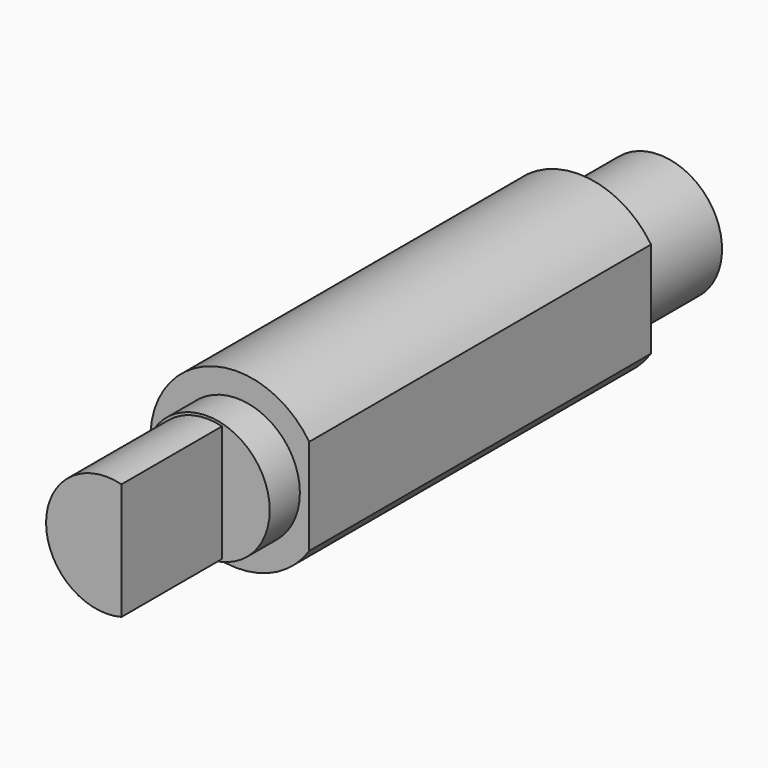
from build123d import *

# Parameters (mm, degrees)
F1_DEPTH = 17
F2_R     = 2.5
F3_DEPTH = 1.5
F4_R     = 2.5
F5_DEPTH = 4
F7_DEPTH = 5


with BuildPart() as f1:
    # F0 (on Front) → F1 (new body)
    with BuildSketch(Plane.XZ):
        with BuildLine():
            Line((2.8721443851, -1.9113572746), (2.8721443851, 1.9113572746))
            ThreePointArc((2.8721443851, 1.9113572746), (-3.45, 0), (2.8721443851, -1.9113572746))
        make_face()
    extrude(amount=F1_DEPTH)

    # F2 (on face) → F3 (join)
    with BuildSketch(Plane.XZ.offset(17)):
        Circle(F2_R)
    extrude(amount=F3_DEPTH)

    # F4 (on face) → F5 (join)
    with BuildSketch(Plane(origin=(0, 0, 0), x_dir=(-1, 0, 0), z_dir=(0, 1, 0))):
        Circle(F4_R)
    extrude(amount=F5_DEPTH)

    # F6 (on face) → F7 (join)
    with BuildSketch(Plane.XZ.offset(18.5)):
        with BuildLine():
            Line((0.6, -2.3237900077), (0.6, 2.3237900077))
            ThreePointArc((0.6, 2.3237900077), (-2.4, 0), (0.6, -2.3237900077))
        make_face()
    extrude(amount=F7_DEPTH)


solid = f1.part
